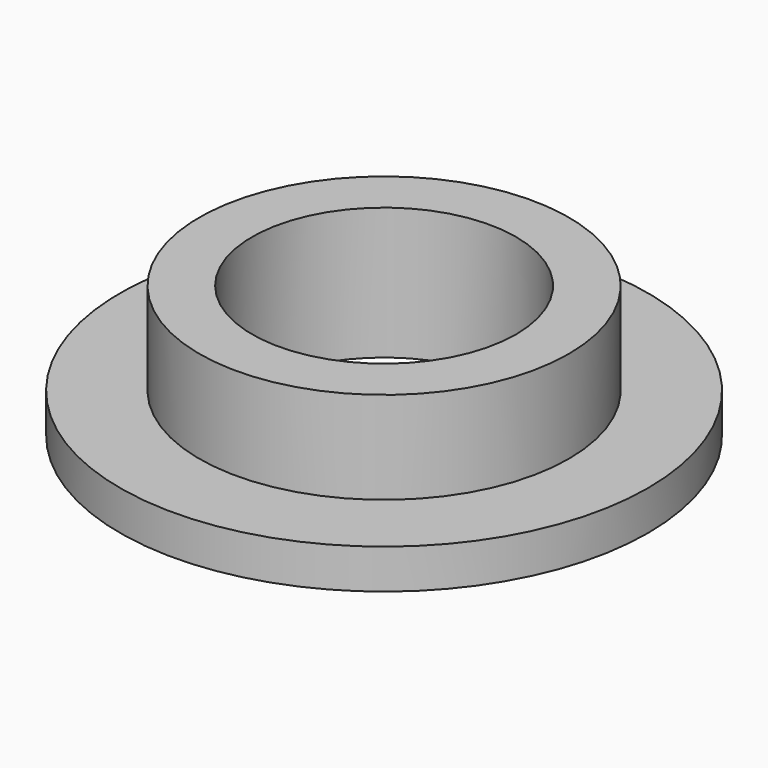
from build123d import *

# Parameters (mm, degrees)
CYLINDER023_R     = 10
CYLINDER023_DEPTH = 10
CYLINDER022_R     = 14
CYLINDER022_DEPTH = 10
CYLINDER021_R     = 20
CYLINDER021_DEPTH = 3


with BuildPart() as cylinder007:
    # Cylinder023 → Cylinder023 (new body)
    with BuildSketch(Plane.XY):
        Circle(CYLINDER023_R)
    extrude(amount=CYLINDER023_DEPTH)


with BuildPart() as cylinder006:
    # Cylinder022 → Cylinder022 (new body)
    with BuildSketch(Plane.XY):
        Circle(CYLINDER022_R)
    extrude(amount=CYLINDER022_DEPTH)


with BuildPart() as cut032:
    # Cylinder021 → Cylinder021 (new body)
    with BuildSketch(Plane.XY):
        Circle(CYLINDER021_R)
    extrude(amount=CYLINDER021_DEPTH)

    # Fusion025: union Cylinder006
    add(cylinder006.part)

    # Cut032: cut Cylinder007
    add(cylinder007.part, mode=Mode.SUBTRACT)


with BuildPart() as cut032_1:
    # Cut032 placement: moved
    add(cut032.part.moved(Location((0, 0, -3))))


solid = cut032_1.part
